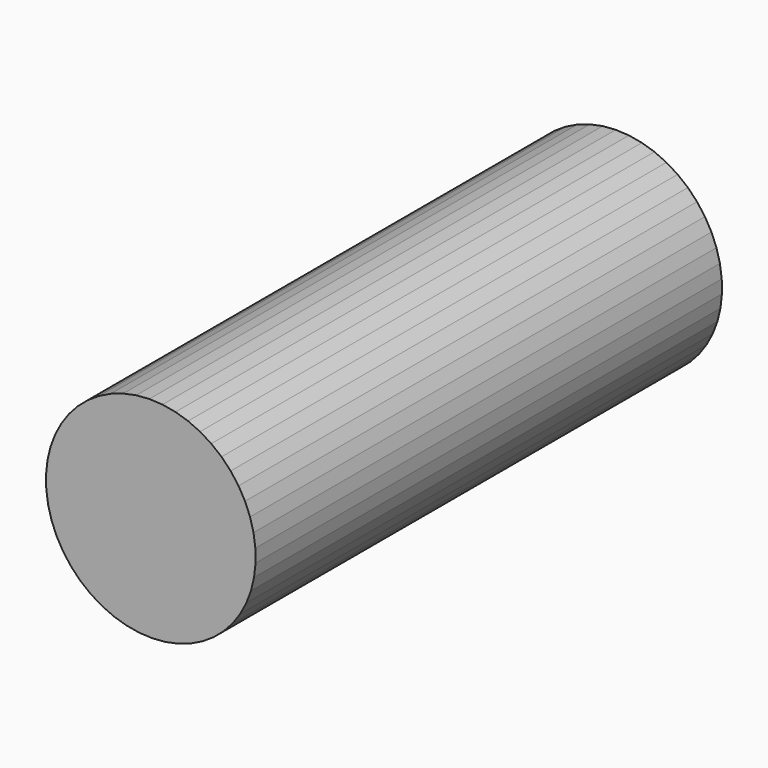
from build123d import *

# Parameters (mm, degrees)
F1_DEPTH = 254


with BuildPart() as f1:
    # F0 (on Front) → F1 (new body)
    with BuildSketch(Plane.XZ):
        Polygon((-79.3451264611, 66.9497435951), (-83.3292260655, 71.076985631), (-87.7991904446, 74.6723430445), (-92.6845255899, 77.6791149013), (-97.9081868478, 80.0498826131), (-103.3877939598, 81.7472577569), (-109.0369302483, 82.7444717128), (-114.7665054596, 83.0257978208), (-120.4861607698, 82.5867994003), (-126.1056937979, 81.4343997185), (-131.5364811511, 79.5867728069), (-136.6928760688, 77.0730568456), (-141.4935591226, 73.9328946369), (-145.8628206732, 70.2158084146), (-149.7317548557, 65.9804188491), (-153.0393462669, 61.2935205637), (-155.7334322144, 56.2290287444), (-157.7715253535, 50.8668134525), (-159.1214837379, 45.2914400263), (-159.7620177173, 39.5908354354), (-159.6830256883, 33.8549016196), (-158.8857534024, 28.1740976815), (-157.3827743199, 22.6380132929), (-155.1977913185, 17.3339558116), (-152.3652628857, 12.3455733926), (-148.9298596867, 7.7515358067), (-144.9457600824, 3.6242937708), (-140.4757957033, 0.0289363573), (-135.590460558, -2.9778354995), (-130.3667993001, -5.3486032113), (-124.8871921881, -7.0459783552), (-119.2380558996, -8.043192311), (-113.5084806883, -8.324518419), (-107.7888253781, -7.8855199985), (-102.16929235, -6.7331203167), (-96.7385049967, -4.8854934051), (-91.5821100791, -2.3717774438), (-86.7814270253, 0.7683847649), (-82.4121654747, 4.4854709872), (-78.5432312922, 8.7208605527), (-75.235639881, 13.407758838), (-72.5415539334, 18.4722506574), (-70.5034607943, 23.8344659493), (-69.15350241, 29.4098393755), (-68.5129684306, 35.1104439664), (-68.5919604596, 40.8463777822), (-69.3892327455, 46.5271817203), (-70.892211828, 52.0632661089), (-73.0771948293, 57.3673235902), (-75.9097232622, 62.3557060091), align=None)
        Polygon((-96.6742937337, 65.4368205061), (-93.2918644177, 63.0266333399), (-90.2381831182, 60.2115204158), (-87.5614082134, 57.0358777464), (-85.3037540427, 53.5497871137), (-83.500825161, 49.8082262494), (-82.1810548337, 45.8702018034), (-81.3652566273, 41.7978187737), (-81.0662961668, 37.6553010734), (-81.2888882373, 33.5079786813), (-82.029522429, 29.4212573489), (-83.276518498, 25.459587113), (-85.0102105716, 21.6854458798), (-87.2032572901, 18.1583541111), (-89.8210729965, 14.9339361511), (-92.8223731736, 12.0630429971), (-96.1598255245, 9.5909503492), (-99.7807964319, 7.5566445852), (-103.6281810217, 5.9922079223), (-107.6413037406, 4.9223124612), (-111.7568752458, 4.3638310923), (-115.9099905163, 4.3255714006), (-120.0351524433, 4.8081367642), (-124.067304759, 5.803916839), (-127.9428580126, 7.2972075785), (-131.6006924142, 9.2644588956), (-134.9831217302, 11.6746460619), (-138.0368030297, 14.489758986), (-140.7135779344, 17.6654016553), (-142.9712321052, 21.1514922881), (-144.7741609869, 24.8930531524), (-146.0939313142, 28.8310775984), (-146.9097295206, 32.9034606281), (-147.2086899811, 37.0459783284), (-146.9860979105, 41.1933007205), (-146.2454637189, 45.2800220529), (-144.9984676498, 49.2416922888), (-143.2647755763, 53.015833522), (-141.0717288578, 56.5429252907), (-138.4539131513, 59.7673432507), (-135.4526129743, 62.6382364047), (-132.1151606234, 65.1103290526), (-128.4941897159, 67.1446348165), (-124.6468051261, 68.7090714795), (-120.6336824073, 69.7789669406), (-116.5181109021, 70.3374483095), (-112.3649956316, 70.3757080012), (-108.2398337046, 69.8931426376), (-104.2076813889, 68.8973625627), (-100.3321281353, 67.4040718232), align=None, mode=Mode.SUBTRACT)
        Polygon((-90.2381831182, 60.2115204158), (-93.2918644177, 63.0266333399), (-96.6742937337, 65.4368205061), (-100.3321281353, 67.4040718232), (-104.2076813889, 68.8973625627), (-108.2398337046, 69.8931426376), (-112.3649956316, 70.3757080012), (-116.5181109021, 70.3374483095), (-120.6336824073, 69.7789669406), (-124.6468051261, 68.7090714795), (-128.4941897159, 67.1446348165), (-132.1151606234, 65.1103290526), (-135.4526129743, 62.6382364047), (-138.4539131513, 59.7673432507), (-141.0717288578, 56.5429252907), (-143.2647755763, 53.015833522), (-144.9984676498, 49.2416922888), (-146.2454637189, 45.2800220529), (-146.9860979105, 41.1933007205), (-147.2086899811, 37.0459783284), (-146.9097295206, 32.9034606281), (-146.0939313142, 28.8310775984), (-144.7741609869, 24.8930531524), (-142.9712321052, 21.1514922881), (-140.7135779344, 17.6654016553), (-138.0368030297, 14.489758986), (-134.9831217302, 11.6746460619), (-131.6006924142, 9.2644588956), (-127.9428580126, 7.2972075785), (-124.067304759, 5.803916839), (-120.0351524433, 4.8081367642), (-115.9099905163, 4.3255714006), (-111.7568752458, 4.3638310923), (-107.6413037406, 4.9223124612), (-103.6281810217, 5.9922079223), (-99.7807964319, 7.5566445852), (-96.1598255245, 9.5909503492), (-92.8223731736, 12.0630429971), (-89.8210729965, 14.9339361511), (-87.2032572901, 18.1583541111), (-85.0102105716, 21.6854458798), (-83.276518498, 25.459587113), (-82.029522429, 29.4212573489), (-81.2888882373, 33.5079786813), (-81.0662961668, 37.6553010734), (-81.3652566273, 41.7978187737), (-82.1810548337, 45.8702018034), (-83.500825161, 49.8082262494), (-85.3037540427, 53.5497871137), (-87.5614082134, 57.0358777464), align=None)
        Polygon((-93.6182163089, 36.2365611925), (-93.9196479969, 33.673598727), (-94.5399271793, 31.1686253941), (-95.4692716829, 28.7611461198), (-96.6930251897, 26.4891282905), (-98.1918883759, 24.3884029844), (-99.9422232735, 22.4920998946), (-101.9164260558, 20.8301248536), (-104.0833623655, 19.4286882006), (-106.4088583224, 18.3098914288), (-108.8562394663, 17.4913786317), (-111.3869091344, 16.986058245), (-113.9609571544, 16.801899473), (-116.5377892513, 16.9418066097), (-119.0767672436, 17.4035732359), (-121.5378499317, 18.179917016), (-123.8822245713, 19.2585945449), (-126.072918974, 20.6225944336), (-128.0753845804, 22.2504055889), (-129.8580413117, 24.1163564567), (-131.3927756062, 26.191019877), (-132.6553837874, 28.4416771684), (-133.62595377, 30.8328341209), (-134.2891790856, 33.3267807609), (-134.6346002748, 35.8841860601), (-134.656769839, 38.4647182092), (-134.355338151, 41.0276806748), (-133.7350589686, 43.5326540077), (-132.805714465, 45.9401332819), (-131.5819609582, 48.2121511113), (-130.083097772, 50.3128764174), (-128.3327628744, 52.2091795072), (-126.3585600921, 53.8711545482), (-124.1916237824, 55.2725912012), (-121.8661278255, 56.391387973), (-119.4187466816, 57.2099007701), (-116.8880770135, 57.7152211568), (-114.3140289935, 57.8993799287), (-111.7371968966, 57.7594727921), (-109.1982189043, 57.2977061659), (-106.7371362162, 56.5213623858), (-104.3927615766, 55.4426848569), (-102.2020671738, 54.0786849682), (-100.1996015674, 52.4508738128), (-98.4169448362, 50.5849229451), (-96.8822105416, 48.5102595248), (-95.6196023604, 46.2596022334), (-94.6490323778, 43.8684452809), (-93.9858070623, 41.3744986409), (-93.6403858731, 38.8170933417), align=None, mode=Mode.SUBTRACT)
        Polygon((-94.5399271793, 31.1686253941), (-93.9196479969, 33.673598727), (-93.6182163089, 36.2365611925), (-93.6403858731, 38.8170933417), (-93.9858070623, 41.3744986409), (-94.6490323778, 43.8684452809), (-95.6196023604, 46.2596022334), (-96.8822105416, 48.5102595248), (-98.4169448362, 50.5849229451), (-100.1996015674, 52.4508738128), (-102.2020671738, 54.0786849682), (-104.3927615766, 55.4426848569), (-106.7371362162, 56.5213623858), (-109.1982189043, 57.2977061659), (-111.7371968966, 57.7594727921), (-114.3140289935, 57.8993799287), (-116.8880770135, 57.7152211568), (-119.4187466816, 57.2099007701), (-121.8661278255, 56.391387973), (-124.1916237824, 55.2725912012), (-126.3585600921, 53.8711545482), (-128.3327628744, 52.2091795072), (-130.083097772, 50.3128764174), (-131.5819609582, 48.2121511113), (-132.805714465, 45.9401332819), (-133.7350589686, 43.5326540077), (-134.355338151, 41.0276806748), (-134.656769839, 38.4647182092), (-134.6346002748, 35.8841860601), (-134.2891790856, 33.3267807609), (-133.62595377, 30.8328341209), (-132.6553837874, 28.4416771684), (-131.3927756062, 26.191019877), (-129.8580413117, 24.1163564567), (-128.0753845804, 22.2504055889), (-126.072918974, 20.6225944336), (-123.8822245713, 19.2585945449), (-121.5378499317, 18.179917016), (-119.0767672436, 17.4035732359), (-116.5377892513, 16.9418066097), (-113.9609571544, 16.801899473), (-111.3869091344, 16.986058245), (-108.8562394663, 17.4913786317), (-106.4088583224, 18.3098914288), (-104.0833623655, 19.4286882006), (-101.9164260558, 20.8301248536), (-99.9422232735, 22.4920998946), (-98.1918883759, 24.3884029844), (-96.6930251897, 26.4891282905), (-95.4692716829, 28.7611461198), align=None)
    extrude(amount=F1_DEPTH)


solid = f1.part
